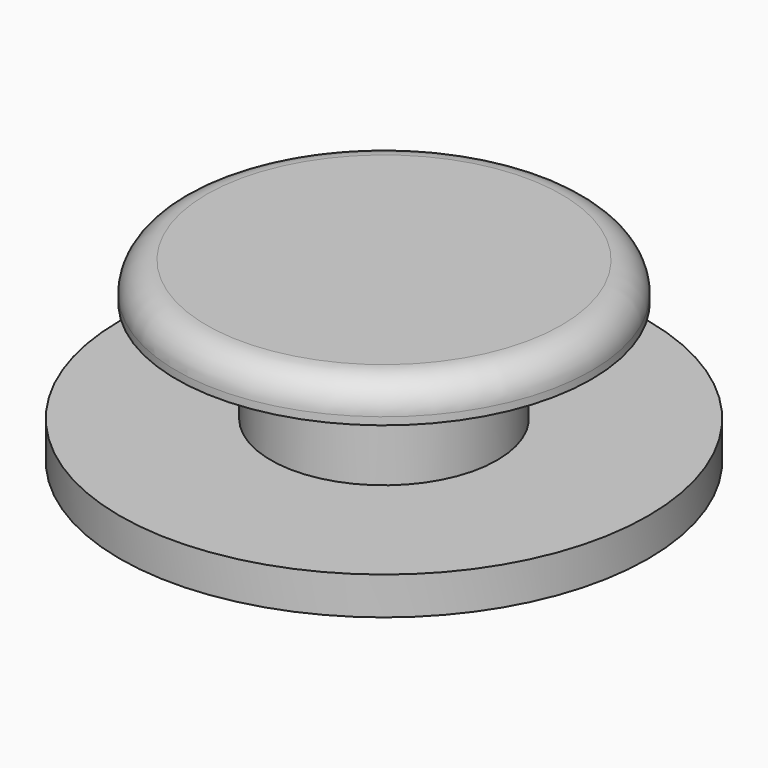
from build123d import *

# Parameters (mm, degrees)
SKETCH006_R     = 7
PAD005_DEPTH    = 1
SKETCH007_R     = 3
PAD006_DEPTH    = 2.7
SKETCH008_R     = 5.5
PAD007_DEPTH    = 1
FILLET_R        = 0.8
POCKET001_DEPTH = 2.7


with BuildPart() as part:
    # Sketch006 → Pad005 (new body)
    with BuildSketch(Plane.XY):
        Circle(SKETCH006_R)
    extrude(amount=PAD005_DEPTH)

    # Sketch007 (on Face3 of Pad005) → Pad006 (join)
    with BuildSketch(Plane.XY.offset(1)):
        Circle(SKETCH007_R)
    extrude(amount=PAD006_DEPTH)

    # Sketch008 (on Face5 of Pad006) → Pad007 (join)
    with BuildSketch(Plane.XY.offset(3.7)):
        Circle(SKETCH008_R)
    extrude(amount=PAD007_DEPTH)

    # Fillet
    fillet_edges = [part.edges().sort_by_distance(p)[0] for p in [
        (-5.5, 0, 4.7),
    ]]
    fillet(fillet_edges, radius=FILLET_R)

    # Sketch009 (on Face8 of Fillet) → Pocket001 (cut)
    with BuildSketch(Plane(origin=(0, 0, 0), x_dir=(1, 0, 0), z_dir=(0, 0, -1))):
        with BuildLine():
            ThreePointArc((-1.325, 1.5), (-2.002124, 0), (-1.325, -1.5))
            Line((-1.325, -1.5), (1.325, -1.5))
            ThreePointArc((1.325, -1.5), (2.002124, 0), (1.325, 1.5))
            Line((-1.325, 1.5), (1.325, 1.5))
        make_face()
    extrude(amount=-POCKET001_DEPTH, mode=Mode.SUBTRACT)


with BuildPart() as part_1:
    # Body003 placement: moved
    add(part.part.moved(Location((0, 0, 6))))


solid = part_1.part
